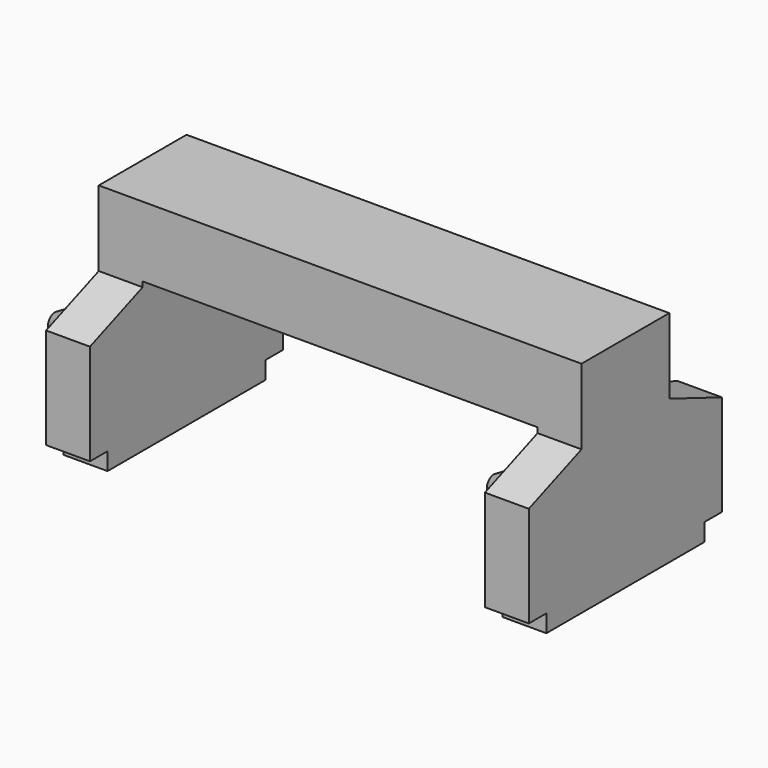
from build123d import *

# Parameters (mm, degrees)
F1_DEPTH  = 55
F2_W      = 5
F2_H      = 4
F3_DEPTH  = 110.001
F4_R      = 6
F5_DEPTH  = 20
F6_R      = 6
F7_DEPTH  = 20
F9_DEPTH  = 110.001
F10_SIZE2 = 4.041452
F10_SIZE  = 7
F11_R     = 2
F12_DEPTH = 55.001


with BuildPart() as f1:
    # F0 (on Front) → F1 (new body)
    with BuildSketch(Plane.XZ):
        Polygon((-45.460895, 50), (-45.460895, 0), (-35.460895, 0), (-35.460895, 34), (54.539105, 34), (54.539105, 0), (64.539105, 0), (64.539105, 50), align=None)
    extrude(amount=F1_DEPTH)

    # F2 (on face) → F3 (cut, through all)
    with BuildSketch(Plane(origin=(-45.460895, 0, 0), x_dir=(0, -1, 0), z_dir=(-1, 0, 0))):
        with Locations((2.5, 2)):
            Rectangle(F2_W, F2_H)
        with Locations((52.5, 2)):
            Rectangle(F2_W, F2_H)
    extrude(amount=-F3_DEPTH, mode=Mode.SUBTRACT)

    # F4 (on face) → F5 (join)
    with BuildSketch(Plane(origin=(-45.460895, 0, 0), x_dir=(0, -1, 0), z_dir=(-1, 0, 0))):
        with Locations((27.5, 11)):
            Circle(F4_R)
    extrude(amount=F5_DEPTH)

    # F6 (on face) → F7 (join)
    with BuildSketch(Plane(origin=(54.539105, 0, 0), x_dir=(0, -1, 0), z_dir=(-1, 0, 0))):
        with Locations((27.5, 11)):
            Circle(F6_R)
    extrude(amount=F7_DEPTH)

    # F8 (on face) → F9 (cut, through all)
    with BuildSketch(Plane(origin=(-45.460895, 0, 0), x_dir=(0, -1, 0), z_dir=(-1, 0, 0))):
        Polygon((40, 32.825176), (55, 27), (55, 50), (40, 50), align=None)
        Polygon((15, 32.825176), (15, 50), (0, 50), (0, 27), align=None)
    extrude(amount=-F9_DEPTH, mode=Mode.SUBTRACT)

    # F10
    f10_edges = [f1.edges().sort_by_distance(p)[0] for p in [
        (-65.460895, -21.5, 11),
        (34.539105, -21.5, 11),
    ]]
    chamfer(f10_edges, length=F10_SIZE, length2=F10_SIZE2)

    # F11 (on Front) → F12 (cut, through all)
    with BuildSketch(Plane.XZ):
        with Locations((-53.460895, 17)):
            Circle(F11_R)
        with Locations((46.539105, 17)):
            Circle(F11_R)
    extrude(amount=F12_DEPTH, mode=Mode.SUBTRACT)


solid = f1.part
